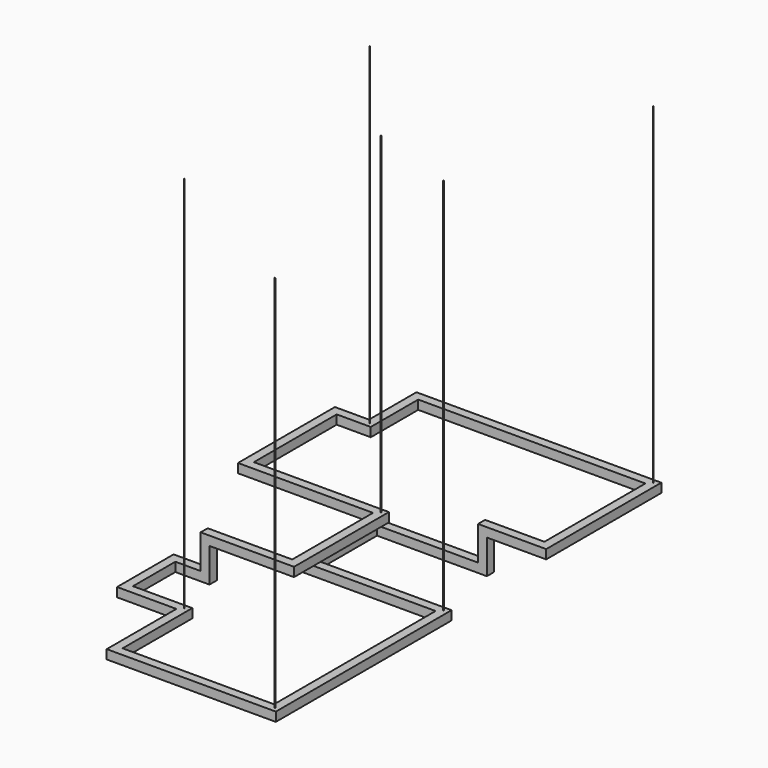
from build123d import *

# Parameters (mm, degrees)
F1_DEPTH  = 35
F2_W      = 35
F2_H      = 35
F3_DEPTH  = 100
F6_DEPTH  = 35
F7_DEPTH  = 1
F8_DEPTH  = 1
F9_DEPTH  = 1
F10_R     = 1
F11_DEPTH = 1500
F12_R     = 1
F13_DEPTH = 1315


with BuildPart() as f1:
    # F0 (on Top) → F1 (new body)
    with BuildSketch(Plane.XY):
        Polygon((500, 880), (500, 380), (265, 380), (265, 345), (535, 345), (535, 915), (-435, 915), (-435, 680), (-570, 680), (-570, 200), (-35, 200), (-35, -200), (-370, -200), (-370, -235), (0, -235), (0, 235), (-535, 235), (-535, 645), (-400, 645), (-400, 880), align=None)
    extrude(amount=F1_DEPTH)

    # F2 (on Top) → F3 (join)
    with BuildSketch(Plane.XY):
        with Locations((-352.5, -217.5)):
            Rectangle(F2_W, F2_H)
        with Locations((282.5, 362.5)):
            Rectangle(F2_W, F2_H)
    extrude(amount=-F3_DEPTH)

    # F5 (on offset) → F6 (join)
    with BuildSketch(Plane(origin=(0, 0, -100), x_dir=(1, 0, 0), z_dir=(0, 0, -1))):
        Polygon((-170, -10), (-170, -380), (300, -380), (300, -345), (-135, -345), (-135, -45), (400, -45), (400, 825), (-270, 825), (-270, 480), (-505, 480), (-505, 200), (-335, 200), (-335, 235), (-470, 235), (-470, 445), (-235, 445), (-235, 790), (365, 790), (365, -10), align=None)
    extrude(amount=F6_DEPTH)


with BuildPart() as f7:
    # F7 (new): a face of the model
    f7_faces = [f1.part.faces().sort_by_distance(p)[0] for p in [
        (-154.9299966822, 195, -135),
    ]]
    extrude(f7_faces, amount=F7_DEPTH)


with BuildPart() as f8:
    # F8 (new): a face of the model
    f8_faces = [f1.part.faces().sort_by_distance(p)[0] for p in [
        (-335, -217.5, -67.5),
    ]]
    extrude(f8_faces, amount=F8_DEPTH)


with BuildPart() as f8b:
    # F8#2 (new): a face of the model
    f8_2_faces = [f1.part.faces().sort_by_distance(p)[0] for p in [
        (300, 362.5, -67.5),
    ]]
    extrude(f8_2_faces, amount=F8_DEPTH)


with BuildPart() as f9:
    # F9 (new): a face of the model
    f9_faces = [f1.part.faces().sort_by_distance(p)[0] for p in [
        (50, 895.9484325249, 0),
    ]]
    extrude(f9_faces, amount=F9_DEPTH)


with BuildPart() as f11:
    # F10 (on face) → F11 (new body)
    with BuildSketch(Plane.XY.offset(-100)):
        with Locations((-252.5, -462.5)):
            Circle(F10_R)
    extrude(amount=F11_DEPTH)


with BuildPart() as f11b:
    # F10 (on face) → F11, piece 2 (new body)
    with BuildSketch(Plane.XY.offset(-100)):
        with Locations((382.5, 27.5)):
            Circle(F10_R)
    extrude(amount=F11_DEPTH)


with BuildPart() as f11c:
    # F10 (on face) → F11, piece 3 (new body)
    with BuildSketch(Plane.XY.offset(-100)):
        with Locations((382.5, -807.5)):
            Circle(F10_R)
    extrude(amount=F11_DEPTH)


with BuildPart() as f13:
    # F12 (on face) → F13 (new body)
    with BuildSketch(Plane.XY.offset(35)):
        with Locations((-417.5, 662.5)):
            Circle(F12_R)
    extrude(amount=F13_DEPTH)


with BuildPart() as f13b:
    # F12 (on face) → F13, piece 2 (new body)
    with BuildSketch(Plane.XY.offset(35)):
        with Locations((517.5, 897.5)):
            Circle(F12_R)
    extrude(amount=F13_DEPTH)


with BuildPart() as f13c:
    # F12 (on face) → F13, piece 3 (new body)
    with BuildSketch(Plane.XY.offset(35)):
        with Locations((-17.5, 217.5)):
            Circle(F12_R)
    extrude(amount=F13_DEPTH)


solid = Compound([f1.part, f7.part, f8.part, f8b.part, f9.part, f11.part, f11b.part, f11c.part, f13.part, f13b.part, f13c.part])
